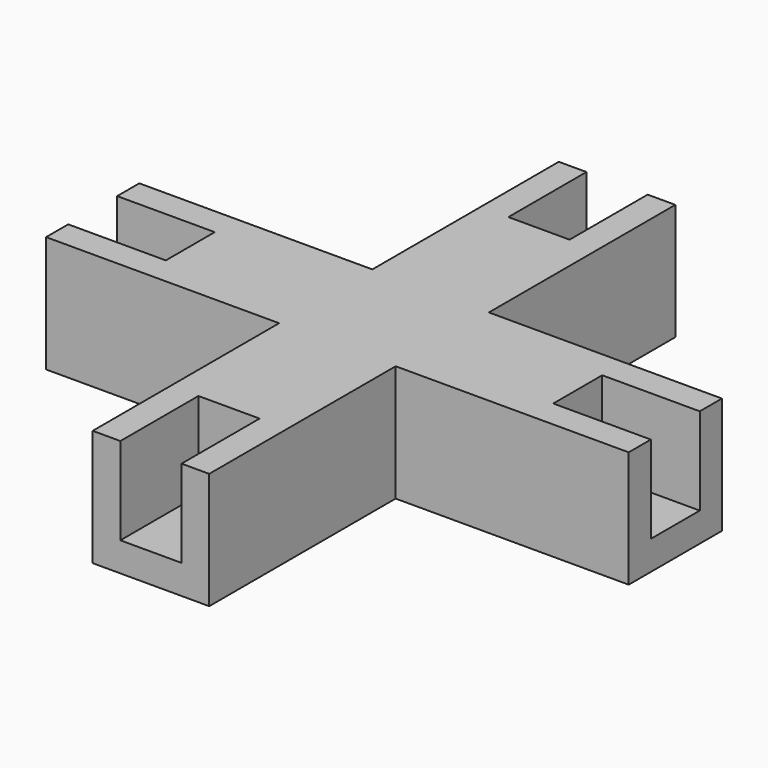
from build123d import *

# Parameters (mm, degrees)
PAD331_DEPTH            = 1
PAD332_DEPTH            = 3
PAD333_DEPTH            = 3
BODY057_PLACEMENT_ANGLE = 180


with BuildPart() as part:
    # Sketch488 → Pad331 (new body)
    with BuildSketch(Plane.XY.offset(-28)):
        Polygon((-2, 2), (-2, 10), (2, 10), (2, 2), (10, 2), (10, -2), (2, -2), (2, -10), (-2, -10), (-2, -2), (-10, -2), (-10, 2), align=None)
    extrude(amount=PAD331_DEPTH)

    # Sketch489 (on Face13 of Pad331) → Pad332 (join)
    with BuildSketch(Plane(origin=(0, 0, -28), x_dir=(1, 0, 0), z_dir=(0, 0, -1))):
        Polygon((-2, 10), (-2, 2), (-10, 2), (-10, 1.05), (-1.05, 1.05), (-1.05, 10), align=None)
        Polygon((-10, -2), (-2, -2), (-2, -10), (-1.05, -10), (-1.05, -1.05), (-10, -1.05), align=None)
        Polygon((2, -10), (2, -2), (10, -2), (10, -1.05), (1.05, -1.05), (1.05, -10), align=None)
        Polygon((10, 2), (2, 2), (2, 10), (1.05, 10), (1.05, 1.05), (10, 1.05), align=None)
    extrude(amount=PAD332_DEPTH)

    # Sketch490 (on Face3 of Pad332) → Pad333 (join)
    with BuildSketch(Plane(origin=(0, 0, -28), x_dir=(1, 0, 0), z_dir=(0, 0, -1))):
        Polygon((-6.65, 1.05), (-6.65, -1.05), (-1.05, -1.05), (-1.05, -6.65), (1.05, -6.65), (1.05, -1.05), (6.65, -1.05), (6.65, 1.05), (1.05, 1.05), (1.05, 6.65), (-1.05, 6.65), (-1.05, 1.05), align=None)
    extrude(amount=PAD333_DEPTH)


with BuildPart() as part_1:
    # Body057 placement: moved
    add(part.part.moved(Location((-29.27, 73, -44))).rotate(Axis((-29.27, 73, -44), (1, 0, 0)), BODY057_PLACEMENT_ANGLE))


solid = part_1.part
